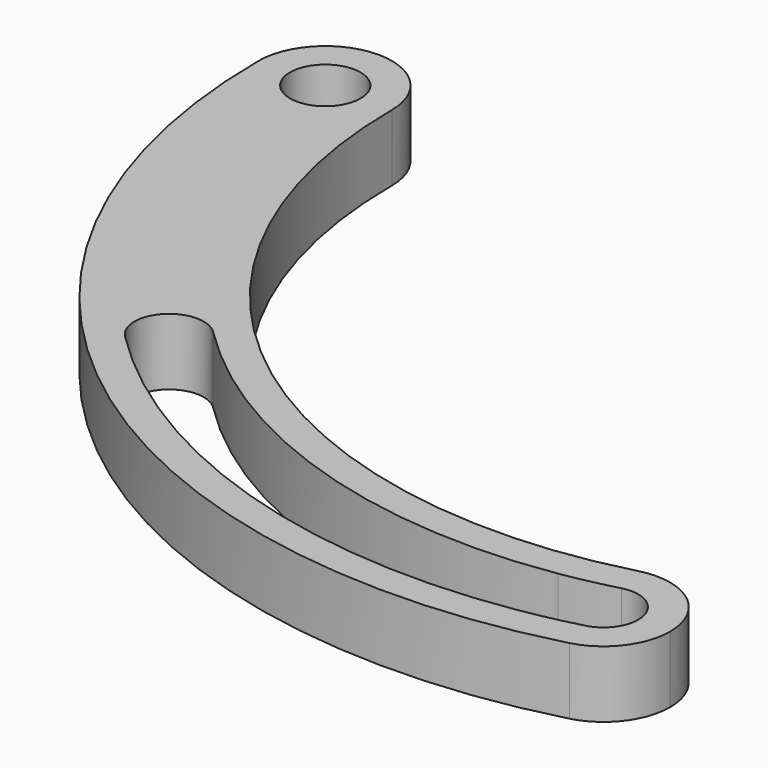
from build123d import *

# Parameters (mm, degrees)
F1_DEPTH = 6.35


with BuildPart() as f1:
    # F0 (on Top) → F1 (new body)
    with BuildSketch(Plane.XY):
        with BuildLine():
            Line((-51.2445, 0), (-48.26, 0))
            ThreePointArc((-48.26, 0), (-54.61, 6.35), (-60.96, 0))
            Line((-60.96, 0), (-57.9755, 0))
            ThreePointArc((-57.9755, 0), (-54.61, 3.3655), (-51.2445, 0))
        make_face()
        with BuildLine():
            ThreePointArc((-60.96, 0), (-54.61, -6.35), (-48.26, 0))
            Line((-48.26, 0), (-51.2445, 0))
            ThreePointArc((-51.2445, 0), (-54.61, -3.3655), (-57.9755, 0))
            Line((-57.9755, 0), (-60.96, 0))
        make_face()
        with BuildLine():
            ThreePointArc((-34.1249732601, -34.1249732601), (-44.586426239, -18.4683024459), (-48.26, 0))
            ThreePointArc((-48.26, 0), (-54.61, -6.35), (-60.96, 0))
            ThreePointArc((-60.96, 0), (-37.1100967124, -48.3628196242), (15.7776089894, -58.8828383706))
            ThreePointArc((15.7776089894, -58.8828383706), (12.4119310117, -58.8612144651), (9.5300837025, -57.1224758622))
            ThreePointArc((9.5300837025, -57.1224758622), (-17.6688931256, -55.1507929201), (-40.9499679121, -40.9499679121))
            ThreePointArc((-40.9499679121, -40.9499679121), (-40.9499679121, -36.2802347291), (-36.2802347291, -36.2802347291))
            Line((-36.2802347291, -36.2802347291), (-34.1249732601, -34.1249732601))
        make_face()
        with BuildLine():
            ThreePointArc((8.1381651285, -50.6584754246), (9.8124734412, -48.096685942), (12.4906071166, -46.6155803767))
            ThreePointArc((12.4906071166, -46.6155803767), (-12.4906071166, -46.6155803767), (-34.1249732601, -34.1249732601))
            Line((-34.1249732601, -34.1249732601), (-36.2802347291, -36.2802347291))
            ThreePointArc((-36.2802347291, -36.2802347291), (-15.8011857696, -48.8142744725), (8.1381651285, -50.6584754246))
        make_face()
        with BuildLine():
            ThreePointArc((20.484108053, -52.7492093736), (17.9997431273, -47.7114156628), (12.4906071166, -46.6155803767))
            Line((12.4906071166, -46.6155803767), (13.2794875661, -49.5597222952))
            ThreePointArc((13.2794875661, -49.5597222952), (16.1442382916, -50.129556644), (17.436108053, -52.7492093736))
            ThreePointArc((17.436108053, -52.7492093736), (16.7537607827, -54.7593396122), (14.98872854, -55.9386964521))
            Line((14.98872854, -55.9386964521), (15.7776089894, -58.8828383706))
            ThreePointArc((15.7776089894, -58.8828383706), (19.1719017639, -56.6148444479), (20.484108053, -52.7492093736))
        make_face()
        with BuildLine():
            Line((13.2794875661, -49.5597222952), (12.4906071166, -46.6155803767))
            ThreePointArc((12.4906071166, -46.6155803767), (9.8124734412, -48.096685942), (8.1381651285, -50.6584754246))
            ThreePointArc((8.1381651285, -50.6584754246), (10.7229089499, -50.1749946453), (13.2794875661, -49.5597222952))
        make_face()
        with BuildLine():
            ThreePointArc((9.5300837025, -57.1224758622), (12.4119310117, -58.8612144651), (15.7776089894, -58.8828383706))
            Line((15.7776089894, -58.8828383706), (14.98872854, -55.9386964521))
            ThreePointArc((14.98872854, -55.9386964521), (12.2736861565, -56.5964342705), (9.5300837025, -57.1224758622))
        make_face()
    extrude(amount=-F1_DEPTH)


solid = f1.part
